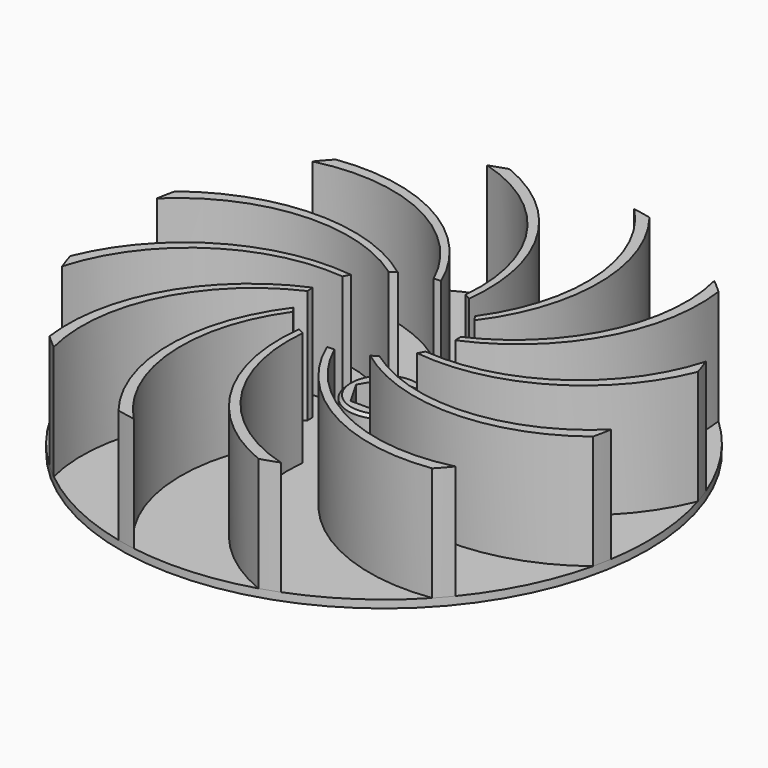
from build123d import *

# Parameters (mm, degrees)
F0_R     = 46.99
F1_DEPTH = 1.397
F3_DEPTH = 25.4
F4_R     = 6.35
F5_DEPTH = 7.62
F6_SIZE  = 0.508
F8_DEPTH = 20.32


with BuildPart() as f1:
    # F0 (on Top) → F1 (new body)
    with BuildSketch(Plane.XY):
        Circle(F0_R)
    extrude(amount=F1_DEPTH)

    # F2 (on face) → F3 (cut)
    with BuildSketch(Plane(origin=(0, 0, 0), x_dir=(1, 0, 0), z_dir=(0, 0, -1))):
        Polygon((2.4929984624, 4.318), (-2.4929984624, 4.318), (-4.9859969247, 0), (-2.4929984624, -4.318), (2.4929984624, -4.318), (4.9859969247, 0), align=None)
    extrude(amount=-F3_DEPTH, mode=Mode.SUBTRACT)

    # F4 (on face) → F5 (join)
    with BuildSketch(Plane.XY.offset(1.397)):
        Circle(F4_R)
        Polygon((2.4929984624, 4.318), (4.9859969247, 0), (2.4929984624, -4.318), (-2.4929984624, -4.318), (-4.9859969247, 0), (-2.4929984624, 4.318), align=None, mode=Mode.SUBTRACT)
    extrude(amount=F5_DEPTH)

    # F6
    f6_edges = [f1.edges().sort_by_distance(p)[0] for p in [
        (-6.35, 0, 9.017),
    ]]
    chamfer(f6_edges, length=F6_SIZE)

    # F7 (on face) → F8 (join)
    with BuildSketch(Plane.XY.offset(1.397)):
        with BuildLine():
            ThreePointArc((10.9985226281, 6.35), (17.5112017635, 26.1092350832), (10.6793059213, 45.7603816094))
            ThreePointArc((10.6793059213, 45.7603816094), (9.067413692, 46.1068553356), (7.4443589893, 46.396569046))
            ThreePointArc((7.4443589893, 46.396569046), (15.9253452898, 27.4252340455), (10.3083918417, 7.4180224884))
            Line((10.3083918417, 7.4180224884), (10.9985226281, 6.35))
        make_face()
        with BuildLine():
            ThreePointArc((12.7, 0), (28.2197631195, 13.8556599737), (32.1287410273, 34.29))
            ThreePointArc((32.1287410273, 34.29), (30.9060382717, 35.3960011633), (29.6452885226, 36.4584279476))
            ThreePointArc((29.6452885226, 36.4584279476), (27.5043706077, 15.7882767433), (12.6363404513, 1.27))
            Line((12.6363404513, 1.27), (12.7, 0))
        make_face()
        with BuildLine():
            ThreePointArc((44.9693059213, 13.6316405821), (44.4634148552, 15.2008170639), (43.9027869369, 16.7512805234))
            ThreePointArc((43.9027869369, 16.7512805234), (31.713622033, -0.0791365622), (11.5783918417, -5.2183179628))
            Line((11.5783918417, -5.2183179628), (10.9985226281, -6.35))
            ThreePointArc((10.9985226281, -6.35), (31.3668617372, -2.1105280363), (44.9693059213, 13.6316405821))
        make_face()
        with BuildLine():
            ThreePointArc((45.7603816094, -10.6793059213), (46.1068553356, -9.067413692), (46.396569046, -7.4443589893))
            ThreePointArc((46.396569046, -7.4443589893), (27.4252340455, -15.9253452898), (7.4180224884, -10.3083918417))
            Line((7.4180224884, -10.3083918417), (6.35, -10.9985226281))
            ThreePointArc((6.35, -10.9985226281), (26.1092350832, -17.5112017635), (45.7603816094, -10.6793059213))
        make_face()
        with BuildLine():
            ThreePointArc((34.29, -32.1287410273), (35.3960011633, -30.9060382717), (36.4584279476, -29.6452885226))
            ThreePointArc((36.4584279476, -29.6452885226), (15.7882767433, -27.5043706077), (1.27, -12.6363404513))
            Line((1.27, -12.6363404513), (0, -12.7))
            ThreePointArc((0, -12.7), (13.8556599737, -28.2197631195), (34.29, -32.1287410273))
        make_face()
        with BuildLine():
            ThreePointArc((13.6316405821, -44.9693059213), (15.2008170639, -44.4634148552), (16.7512805234, -43.9027869369))
            ThreePointArc((16.7512805234, -43.9027869369), (-0.0791365622, -31.713622033), (-5.2183179628, -11.5783918417))
            Line((-5.2183179628, -11.5783918417), (-6.35, -10.9985226281))
            ThreePointArc((-6.35, -10.9985226281), (-2.1105280363, -31.3668617372), (13.6316405821, -44.9693059213))
        make_face()
        with BuildLine():
            ThreePointArc((-10.6793059213, -45.7603816094), (-9.067413692, -46.1068553356), (-7.4443589893, -46.396569046))
            ThreePointArc((-7.4443589893, -46.396569046), (-15.9253452898, -27.4252340455), (-10.3083918417, -7.4180224884))
            Line((-10.3083918417, -7.4180224884), (-10.9985226281, -6.35))
            ThreePointArc((-10.9985226281, -6.35), (-17.5112017635, -26.1092350832), (-10.6793059213, -45.7603816094))
        make_face()
        with BuildLine():
            ThreePointArc((-32.1287410273, -34.29), (-30.9060382717, -35.3960011633), (-29.6452885226, -36.4584279476))
            ThreePointArc((-29.6452885226, -36.4584279476), (-27.5043706077, -15.7882767433), (-12.6363404513, -1.27))
            Line((-12.6363404513, -1.27), (-12.7, 0))
            ThreePointArc((-12.7, 0), (-28.2197631195, -13.8556599737), (-32.1287410273, -34.29))
        make_face()
        with BuildLine():
            ThreePointArc((-10.9985226281, 6.35), (-31.3668617372, 2.1105280363), (-44.9693059213, -13.6316405821))
            ThreePointArc((-44.9693059213, -13.6316405821), (-44.4634148552, -15.2008170639), (-43.9027869369, -16.7512805234))
            ThreePointArc((-43.9027869369, -16.7512805234), (-31.713622033, 0.0791365622), (-11.5783918417, 5.2183179628))
            Line((-11.5783918417, 5.2183179628), (-10.9985226281, 6.35))
        make_face()
        with BuildLine():
            ThreePointArc((-6.35, 10.9985226281), (-26.1092350832, 17.5112017635), (-45.7603816094, 10.6793059213))
            ThreePointArc((-45.7603816094, 10.6793059213), (-46.1068553356, 9.067413692), (-46.396569046, 7.4443589893))
            ThreePointArc((-46.396569046, 7.4443589893), (-27.4252340455, 15.9253452898), (-7.4180224884, 10.3083918417))
            Line((-7.4180224884, 10.3083918417), (-6.35, 10.9985226281))
        make_face()
        with BuildLine():
            ThreePointArc((0, 12.7), (-13.8556599737, 28.2197631195), (-34.29, 32.1287410273))
            ThreePointArc((-34.29, 32.1287410273), (-35.3960011633, 30.9060382717), (-36.4584279476, 29.6452885226))
            ThreePointArc((-36.4584279476, 29.6452885226), (-15.7882767433, 27.5043706077), (-1.27, 12.6363404513))
            Line((-1.27, 12.6363404513), (0, 12.7))
        make_face()
        with BuildLine():
            ThreePointArc((6.35, 10.9985226281), (2.1105280363, 31.3668617372), (-13.6316405821, 44.9693059213))
            ThreePointArc((-13.6316405821, 44.9693059213), (-15.2008170639, 44.4634148552), (-16.7512805234, 43.9027869369))
            ThreePointArc((-16.7512805234, 43.9027869369), (0.0791365622, 31.713622033), (5.2183179628, 11.5783918417))
            Line((5.2183179628, 11.5783918417), (6.35, 10.9985226281))
        make_face()
    extrude(amount=F8_DEPTH)


solid = f1.part
